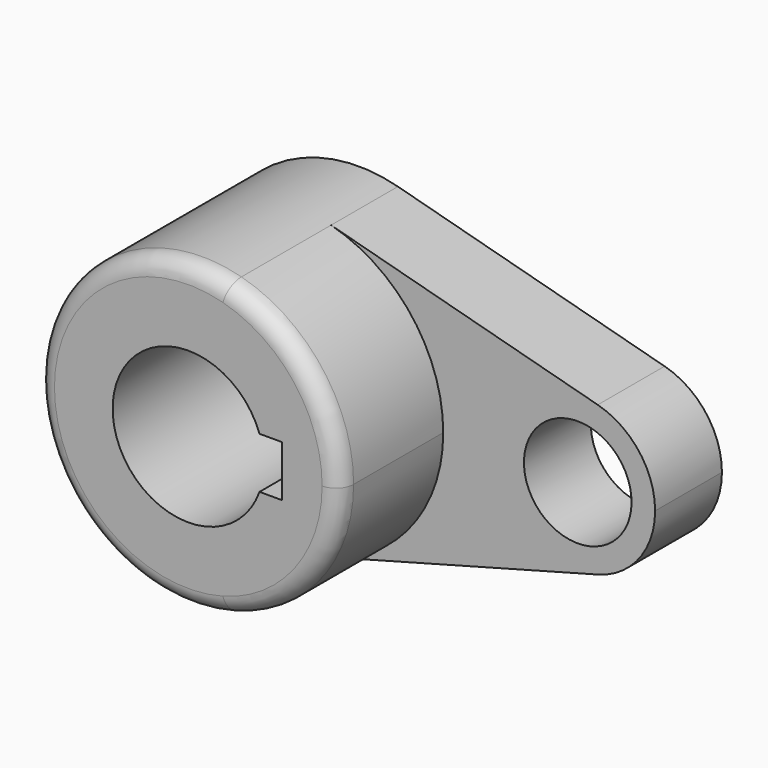
from build123d import *

# Parameters (mm, degrees)
F1_DEPTH = 40.2336
F0_R     = 10.16
F2_DEPTH = 15.7734
F3_R     = 3.302


with BuildPart() as f1:
    # F0 (on Front) → F1 (new body)
    with BuildSketch(Plane.XZ):
        with BuildLine():
            ThreePointArc((7.395882, -27.601296), (22.670112, -17.395305), (28.575, 0))
            ThreePointArc((28.575, 0), (22.670112, 17.395305), (7.395882, 27.601296))
            ThreePointArc((7.395882, 27.601296), (-28.575, 0), (7.395882, -27.601296))
        make_face()
        with BuildLine():
            ThreePointArc((13.447765, -4.826), (-14.2875, 0), (13.447765, 4.826))
            Line((13.447765, 4.826), (17.689565, 4.826))
            Line((17.689565, 4.826), (17.689565, -4.826))
            Line((17.689565, -4.826), (13.447765, -4.826))
        make_face(mode=Mode.SUBTRACT)
    extrude(amount=F1_DEPTH)

    # F0 (on Front) → F2 (join)
    with BuildSketch(Plane.XZ):
        with BuildLine():
            ThreePointArc((7.395882, 27.601296), (22.670112, 17.395305), (28.575, 0))
            ThreePointArc((28.575, 0), (22.670112, -17.395305), (7.395882, -27.601296))
            Line((7.395882, -27.601296), (57.755118, -14.107329))
            ThreePointArc((57.755118, -14.107329), (39.37, 0), (57.755118, 14.107329))
            Line((57.755118, 14.107329), (7.395882, 27.601296))
        make_face()
        with BuildLine():
            ThreePointArc((68.58, 0), (65.561946, 8.890934), (57.755118, 14.107329))
            ThreePointArc((57.755118, 14.107329), (39.37, 0), (57.755118, -14.107329))
            ThreePointArc((57.755118, -14.107329), (65.561946, -8.890934), (68.58, 0))
        make_face()
        with Locations((53.975, 0)):
            Circle(F0_R, mode=Mode.SUBTRACT)
    extrude(amount=F2_DEPTH)

    # F3
    f3_edges = [f1.edges().sort_by_distance(p)[0] for p in [
        (-7.395882, -40.2336, 27.601296),
    ]]
    fillet(f3_edges, radius=F3_R)


solid = f1.part
